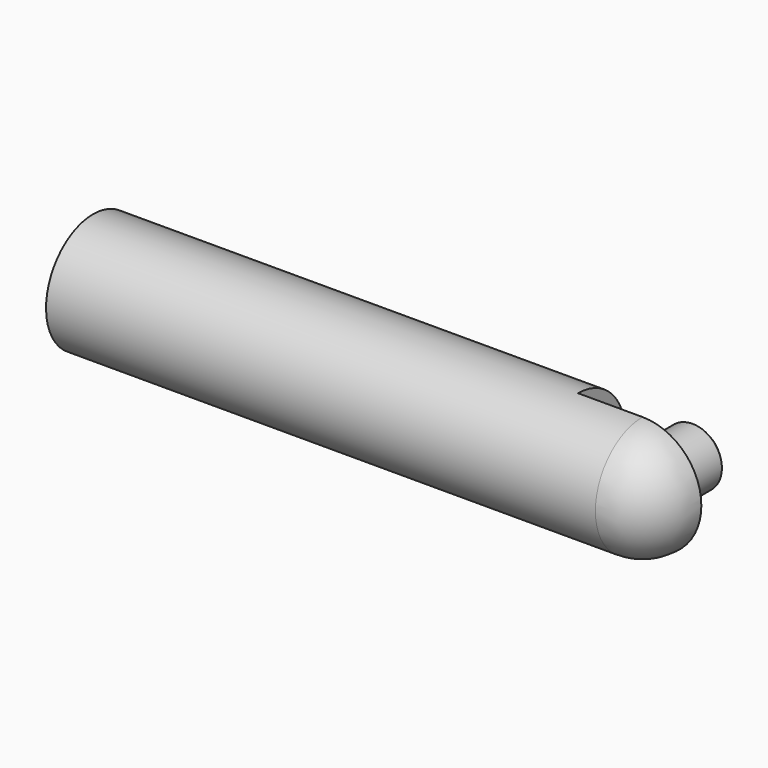
from build123d import *

# Parameters (mm, degrees)
F0_W     = 156.972
F0_H     = 19.0483668515
F1_W     = 20.828
F1_H     = 19.0483668515
F4_ANGLE = 180
F5_ANGLE = 90
F2_R     = 9.525
F6_DEPTH = 20.828
F7_SIZE2 = 1.524
F7_SIZE  = 1.524


with BuildPart() as f3:
    # F0 (on Front) → F3 (revolve)
    with BuildSketch(Plane.XZ):
        with Locations((-49.7373995433, 9.5241834258)):
            Rectangle(F0_W, F0_H)
    revolve(axis=Axis((-49.7373995433, 0, 0), (-1, 0, 0)))

    # F1 (on Front) → F4 (revolve)
    with BuildSketch(Plane.XZ):
        with Locations((39.1626004567, 9.5241834258)):
            Rectangle(F1_W, F1_H)
    revolve(axis=Axis((39.1626004567, 0, 0), (1, 0, 0)), revolution_arc=F4_ANGLE)

    # F4_face (on face) → F5 (revolve)
    with BuildSketch(Plane(origin=(49.5766004567, -8.0843779793, 0), x_dir=(0, 1, 0), z_dir=(1, 0, 0))):
        with BuildLine():
            ThreePointArc((8.0843779793, 19.0483668515), (-10.9639888722, 0), (8.0843779793, -19.0483668515))
            Line((8.0843779793, -19.0483668515), (8.0843779793, 19.0483668515))
        make_face()
    revolve(axis=Axis((49.5766004567, 0, 0), (0, 0, 1)), revolution_arc=F5_ANGLE)

    # F2 (on Front) → F6 (join)
    with BuildSketch(Plane.XZ):
        with Locations((50.3156370405, 0)):
            Circle(F2_R)
    extrude(amount=-F6_DEPTH)

    # F7
    f7_edges = [f3.edges().sort_by_distance(p)[0] for p in [
        (40.790637, 20.828, 0),
    ]]
    chamfer(f7_edges, length=F7_SIZE, length2=F7_SIZE2)


solid = f3.part
